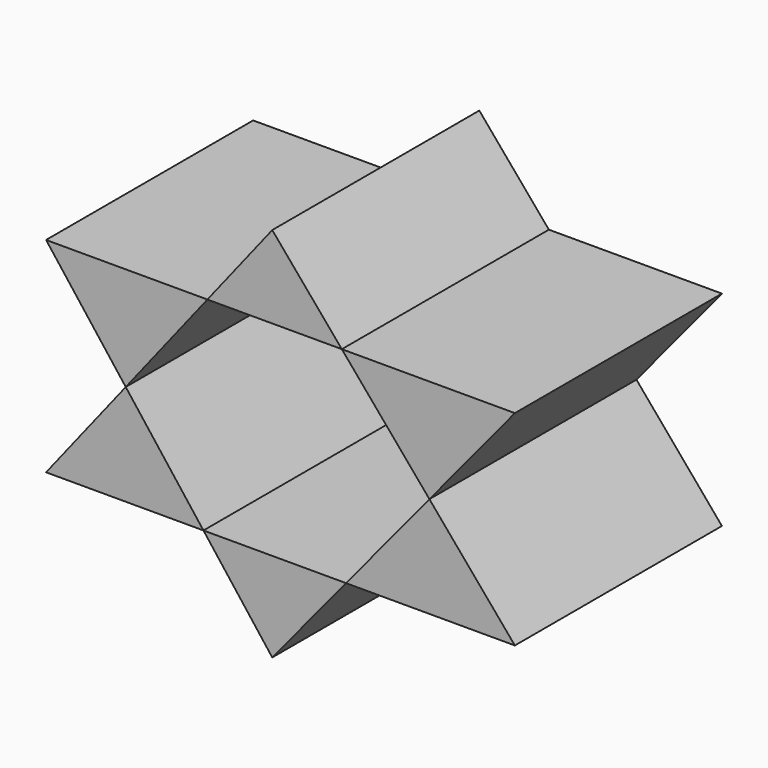
from build123d import *

# Parameters (mm, degrees)
F1_DEPTH = 25.4
F2_DEPTH = 25.4


with BuildPart() as f1:
    # F0 (on Front) → F1 (new body)
    with BuildSketch(Plane.XZ):
        Polygon((6.8276116135, 20.0781710446), (15.4246633988, 9.9147072672), (23.8112974912, 20.0781710446), align=None)
    extrude(amount=F1_DEPTH)


with BuildPart() as f1b:
    # F0 (on Front) → F1, piece 2 (new body)
    with BuildSketch(Plane.XZ):
        Polygon((0, -8.7778940797), (7.2432969075, 0), (-6.752226651, 0), align=None)
    extrude(amount=F1_DEPTH)


with BuildPart() as f1c:
    # F0 (on Front) → F1, piece 3 (new body)
    with BuildSketch(Plane.XZ):
        Polygon((-22.1969746053, 20.0781710446), (-14.3789250412, 9.9147072672), (-6.3647233695, 20.0781710446), align=None)
    extrude(amount=F1_DEPTH)


with BuildPart() as f2:
    # F0 (on Front) → F2 (new body)
    with BuildSketch(Plane.XZ):
        Polygon((-22.1969746053, 0), (-6.752226651, 0), (-14.3789250412, 9.9147072672), align=None)
    extrude(amount=F2_DEPTH)


with BuildPart() as f2b:
    # F0 (on Front) → F2, piece 2 (new body)
    with BuildSketch(Plane.XZ):
        Polygon((-6.3647233695, 20.0781710446), (6.8276116135, 20.0781710446), (0, 28.1497966498), align=None)
    extrude(amount=F2_DEPTH)


with BuildPart() as f2c:
    # F0 (on Front) → F2, piece 3 (new body)
    with BuildSketch(Plane.XZ):
        Polygon((7.2432969075, 0), (23.8112974912, 0), (15.4246633988, 9.9147072672), align=None)
    extrude(amount=F2_DEPTH)


solid = Compound([f1.part, f1b.part, f1c.part, f2.part, f2b.part, f2c.part])
